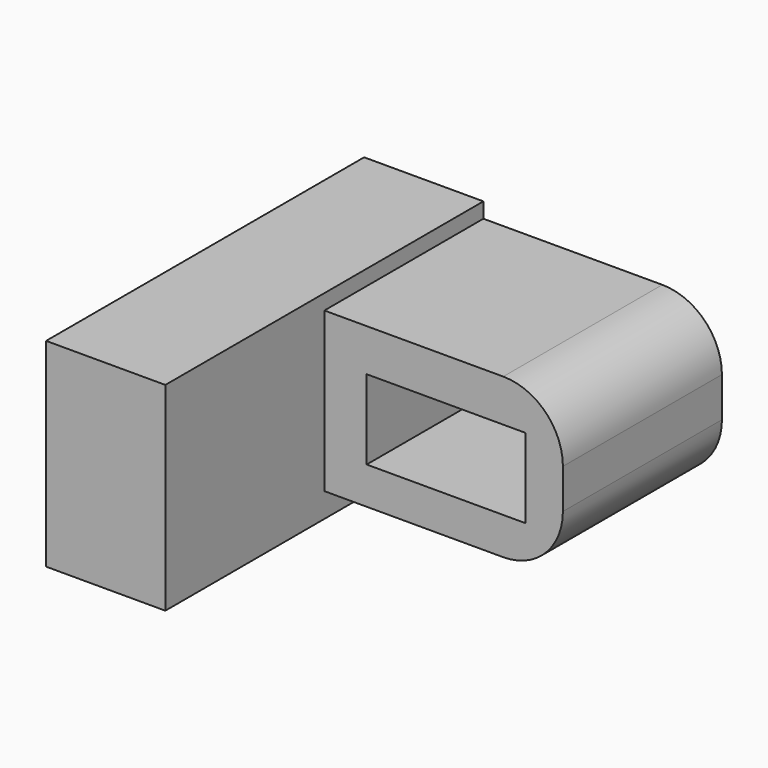
from build123d import *

# Parameters (mm, degrees)
F0_W     = 76.2
F0_H     = 50.8
F0_W_2   = 50.8
F0_H_2   = 25.4
F1_DEPTH = 63.5
F2_R     = 19.05
F3_W     = 38.1
F3_H     = 63.5
F4_DEPTH = 127


with BuildPart() as f1:
    # F0 (on Front) → F1 (new body)
    with BuildSketch(Plane.XZ):
        Rectangle(F0_W, F0_H)
        with Locations((0.819354, -0.819356)):
            Rectangle(F0_W_2, F0_H_2, mode=Mode.SUBTRACT)
    extrude(amount=F1_DEPTH)

    # F2
    f2_edges = [f1.edges().sort_by_distance(p)[0] for p in [
        (38.1, -31.75, 25.4),
        (38.1, -31.75, -25.4),
    ]]
    fillet(f2_edges, radius=F2_R)

    # F3 (on Front) → F4 (join)
    with BuildSketch(Plane.XZ):
        with Locations((-57.149999, -1.467527)):
            Rectangle(F3_W, F3_H)
    extrude(amount=F4_DEPTH)


solid = f1.part
